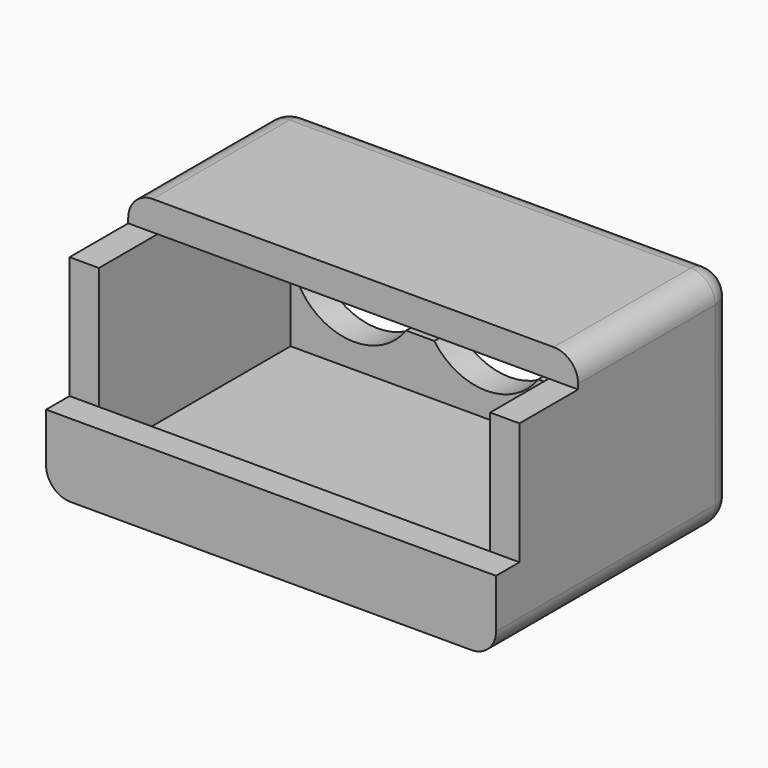
from build123d import *

# Parameters (mm, degrees)
SKETCH_W        = 18.4
SKETCH_H        = 11
PAD_DEPTH       = 8
SKETCH002_R     = 2.6
POCKET_DEPTH    = 10
SKETCH003_W     = 16
SKETCH003_H     = 9.8
POCKET001_DEPTH = 6.8
SKETCH004_W     = 10.8
SKETCH004_H     = 3
POCKET002_DEPTH = 5
SKETCH005_W     = 18.4
SKETCH005_H     = 3
PAD001_DEPTH    = 1.2
SKETCH006_W     = 18.4
SKETCH006_H     = 8
PAD002_DEPTH    = 1.2
FILLET_R        = 1


with BuildPart() as part:
    # Sketch → Pad (new body)
    with BuildSketch(Plane.XY):
        Rectangle(SKETCH_W, SKETCH_H)
    extrude(amount=PAD_DEPTH)

    # Sketch002 (on Face3 of Pad) → Pocket (cut)
    with BuildSketch(Plane(origin=(0, 5.5, 0), x_dir=(-1, 0, 0), z_dir=(0, 1, 0))):
        with Locations((-5.4, 4.8)):
            Circle(SKETCH002_R)
        with Locations((0, 4.8)):
            Circle(SKETCH002_R)
        with Locations((5.4, 4.8)):
            Circle(SKETCH002_R)
    extrude(amount=-POCKET_DEPTH, mode=Mode.SUBTRACT)

    # Sketch003 (on Face5 of Pocket) → Pocket001 (cut)
    with BuildSketch(Plane.XY.offset(8)):
        with Locations((0, -0.6)):
            Rectangle(SKETCH003_W, SKETCH003_H)
    extrude(amount=-POCKET001_DEPTH, mode=Mode.SUBTRACT)

    # Sketch004 (on Face9 of Pocket001) → Pocket002 (cut)
    with BuildSketch(Plane(origin=(0, 5.5, 0), x_dir=(-1, 0, 0), z_dir=(0, 1, 0))):
        with Locations((0, 4.8)):
            Rectangle(SKETCH004_W, SKETCH004_H)
    extrude(amount=-POCKET002_DEPTH, mode=Mode.SUBTRACT)

    # Sketch005 (on Face1 of Pocket002) → Pad001 (join)
    with BuildSketch(Plane.XZ.offset(5.5)):
        with Locations((0, 1.5)):
            Rectangle(SKETCH005_W, SKETCH005_H)
    extrude(amount=PAD001_DEPTH)

    # Sketch006 (on Face4 of Pad001) → Pad002 (join)
    with BuildSketch(Plane.XY.offset(8)):
        with Locations((0, 1.5)):
            Rectangle(SKETCH006_W, SKETCH006_H)
    extrude(amount=PAD002_DEPTH)

    # Fillet
    fillet_edges = [part.edges().sort_by_distance(p)[0] for p in [
        (0, 5.5, 9.2),
        (-9.2, 5.5, 4.6),
        (0, 5.5, 0),
        (9.2, 5.5, 4.6),
        (9.2, 1.5, 9.2),
        (-9.2, 1.5, 9.2),
        (-9.2, -0.6, 0),
        (9.2, -0.6, 0),
    ]]
    fillet(fillet_edges, radius=FILLET_R)


solid = part.part
